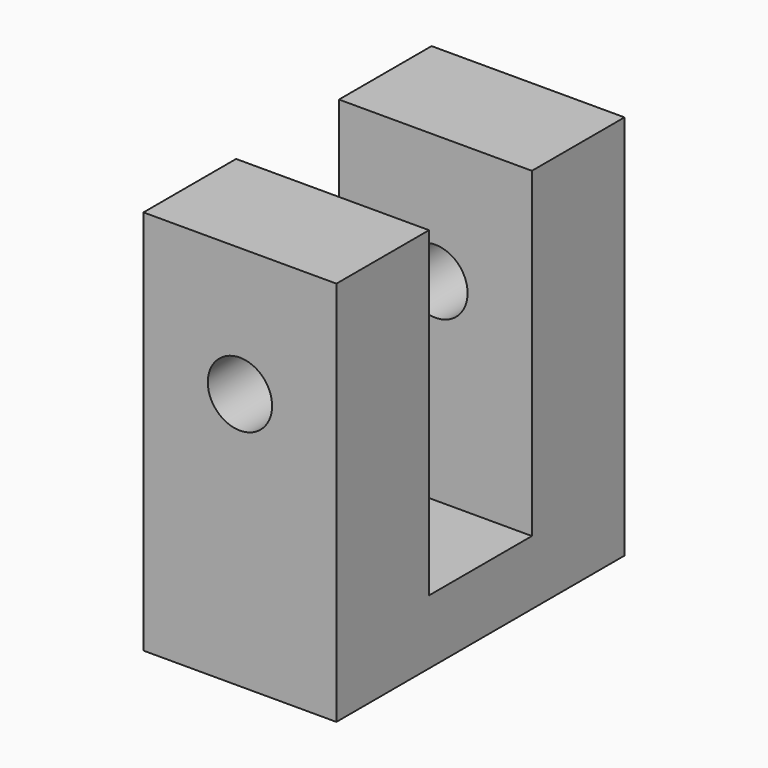
from build123d import *

# Parameters (mm, degrees)
F1_DEPTH = 19.05
F2_R     = 3.175
F3_DEPTH = 35.561
F4_R     = 3.175
F5_DEPTH = 12.7


with BuildPart() as f1:
    # F0 (on Right) → F1 (new body)
    with BuildSketch(Plane.YZ):
        Polygon((-6.35, 31.75), (-17.78, 31.75), (-17.78, 0), (-17.78, -6.35), (-6.35, -6.35), (6.35, -6.35), (17.78, -6.35), (17.78, 0), (17.78, 31.75), (6.35, 31.75), (6.35, 0), (-6.35, 0), align=None)
    extrude(amount=F1_DEPTH)

    # F2 (on face) → F3 (cut, through all)
    with BuildSketch(Plane(origin=(0, 17.78, 0), x_dir=(-1, 0, 0), z_dir=(0, 1, 0))):
        with Locations((-9.525, 19.05)):
            Circle(F2_R)
    extrude(amount=-F3_DEPTH, mode=Mode.SUBTRACT)

    # F4 (on face) → F5 (cut)
    with BuildSketch(Plane(origin=(0, 0, -6.35), x_dir=(1, 0, 0), z_dir=(0, 0, -1))):
        with Locations((12.7, 13.0048)):
            Circle(F4_R)
        with Locations((12.7, -13.0048)):
            Circle(F4_R)
    extrude(amount=-F5_DEPTH, mode=Mode.SUBTRACT)


solid = f1.part
